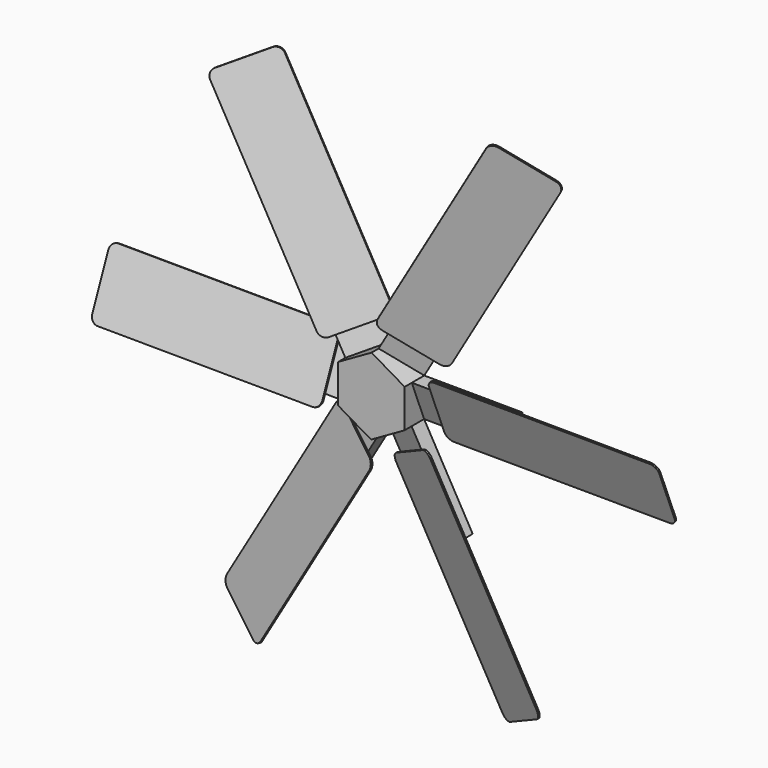
from build123d import *

# Parameters (mm, degrees)
F1_DEPTH = 40.64
F3_DEPTH = 162.56
F6_DEPTH = 2.54
F7_COUNT = 6
F7_ANGLE = 300


with BuildPart() as f1:
    # F0 (on Front) → F1 (new body)
    with BuildSketch(Plane.XZ):
        Polygon((55.170154, 31.440485), (0.356819, 63.498997), (-54.813336, 32.058513), (-55.170154, -31.440485), (-0.356819, -63.498997), (54.813336, -32.058513), align=None)
    extrude(amount=F1_DEPTH)


with BuildPart() as f3:
    # F2 (on face) → F3 (new body)
    with BuildSketch(Plane(origin=(27.763486, 0, 47.469741), x_dir=(0.863202, 0, -0.504858), z_dir=(0.504858, 0, 0.863202))):
        Polygon((-31.75, -25.903019), (31.75, 0), (-31.75, 0), align=None)
    extrude(amount=F3_DEPTH)


with BuildPart() as f6:
    # F5 (on face) → F6 (new body)
    with BuildSketch(Plane(origin=(3.909868, -11.103832, -2.286753), x_dir=(0.945357, 0.319334, 0.065765), z_dir=(0.326036, -0.925926, -0.190688))):
        with BuildLine():
            Line((6.359442, 100.083368), (79.37331, 53.963691))
            ThreePointArc((79.37331, 53.963691), (88.952243, 52.312769), (96.892949, 57.918719))
            Line((96.892949, 57.918719), (286.797501, 358.564061))
            ThreePointArc((286.797501, 358.564061), (288.448423, 368.142994), (282.842472, 376.0837))
            Line((282.842472, 376.0837), (209.828604, 422.203377))
            ThreePointArc((209.828604, 422.203377), (200.249671, 423.854299), (192.308965, 418.248348))
            Line((192.308965, 418.248348), (2.404414, 117.603007))
            ThreePointArc((2.404414, 117.603007), (0.753492, 108.024074), (6.359442, 100.083368))
        make_face()
    extrude(amount=F6_DEPTH)


with BuildPart() as f7_1:
    # F7: instance of F3
    add(f3.part.rotate(Axis((0, -55.107702, 0), (0, -1, 0)), 1 * F7_ANGLE / (F7_COUNT - 1)))


with BuildPart() as f7_2:
    # F7: instance of F3
    add(f3.part.rotate(Axis((0, -55.107702, 0), (0, -1, 0)), 2 * F7_ANGLE / (F7_COUNT - 1)))


with BuildPart() as f7_3:
    # F7: instance of F3
    add(f3.part.rotate(Axis((0, -55.107702, 0), (0, -1, 0)), 3 * F7_ANGLE / (F7_COUNT - 1)))


with BuildPart() as f7_4:
    # F7: instance of F3
    add(f3.part.rotate(Axis((0, -55.107702, 0), (0, -1, 0)), 4 * F7_ANGLE / (F7_COUNT - 1)))


with BuildPart() as f7_5:
    # F7: instance of F3
    add(f3.part.rotate(Axis((0, -55.107702, 0), (0, -1, 0)), 5 * F7_ANGLE / (F7_COUNT - 1)))


with BuildPart() as f7_6:
    # F7: instance of F6
    add(f6.part.rotate(Axis((0, -55.107702, 0), (0, -1, 0)), 1 * F7_ANGLE / (F7_COUNT - 1)))


with BuildPart() as f7_7:
    # F7: instance of F6
    add(f6.part.rotate(Axis((0, -55.107702, 0), (0, -1, 0)), 2 * F7_ANGLE / (F7_COUNT - 1)))


with BuildPart() as f7_8:
    # F7: instance of F6
    add(f6.part.rotate(Axis((0, -55.107702, 0), (0, -1, 0)), 3 * F7_ANGLE / (F7_COUNT - 1)))


with BuildPart() as f7_9:
    # F7: instance of F6
    add(f6.part.rotate(Axis((0, -55.107702, 0), (0, -1, 0)), 4 * F7_ANGLE / (F7_COUNT - 1)))


with BuildPart() as f7_10:
    # F7: instance of F6
    add(f6.part.rotate(Axis((0, -55.107702, 0), (0, -1, 0)), 5 * F7_ANGLE / (F7_COUNT - 1)))


solid = Compound([f1.part, f3.part, f6.part, f7_1.part, f7_2.part, f7_3.part, f7_4.part, f7_5.part, f7_6.part, f7_7.part, f7_8.part, f7_9.part, f7_10.part])
